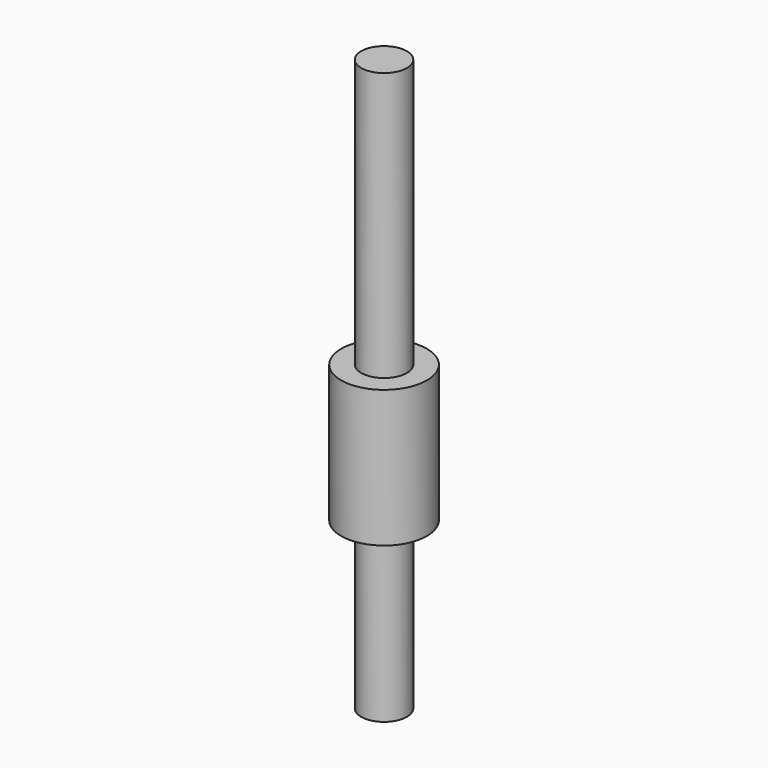
from build123d import *

# Parameters (mm, degrees)
CYLINDER007_R     = 4
CYLINDER007_DEPTH = 100
CYLINDER013_R     = 7.5
CYLINDER013_DEPTH = 24


with BuildPart() as rod_cylinder:
    # Cylinder007 → Cylinder007 (new body)
    with BuildSketch(Plane(origin=(42, 0, -123), x_dir=(1, 0, 0), z_dir=(0, 0, 1))):
        Circle(CYLINDER007_R)
    extrude(amount=CYLINDER007_DEPTH)


with BuildPart() as rod_fusion:
    # Cylinder013 → Cylinder013 (new body)
    with BuildSketch(Plane(origin=(42, 0, -94), x_dir=(1, 0, 0), z_dir=(0, 0, 1))):
        Circle(CYLINDER013_R)
    extrude(amount=CYLINDER013_DEPTH)

    # Fusion005: union rod cylinder
    add(rod_cylinder.part)


with BuildPart() as rod_fusion_1:
    # Fusion005 placement: moved
    add(rod_fusion.part.moved(Location((-28, 64, 92))))


solid = rod_fusion_1.part
